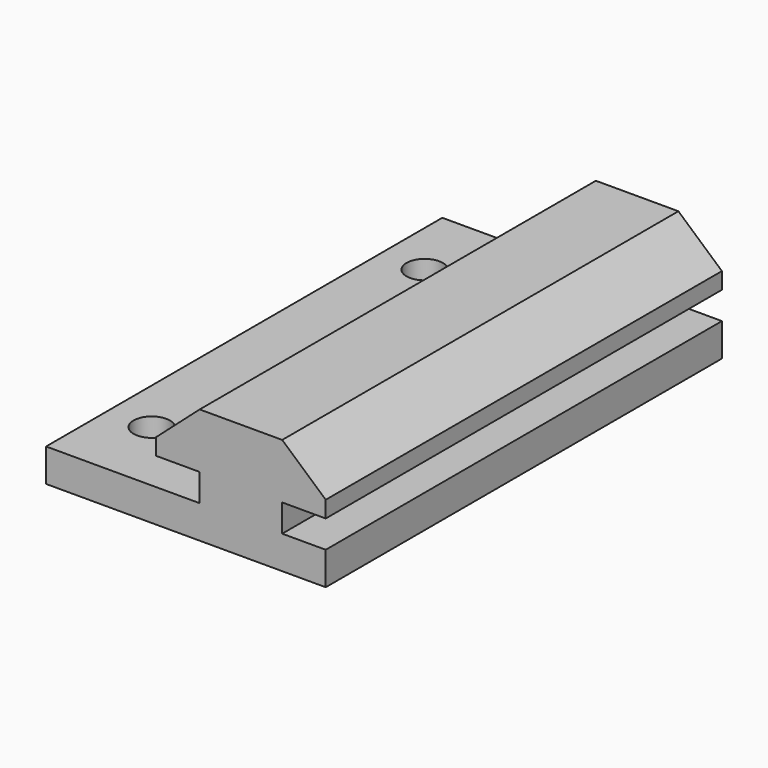
from build123d import *

# Parameters (mm, degrees)
F1_DEPTH = 45
F2_W     = 45
F2_H     = 3
F3_DEPTH = 10
F5_D     = 3.3


with BuildPart() as f1:
    # F0 (on Front) → F1 (new body)
    with BuildSketch(Plane.XZ):
        Polygon((-4.964183461, 2.5), (-4.964183461, 0), (2.535816539, 0), (2.535816539, 2.5), (6.4899705969, 2.5), (6.4899705969, 4), (2.535816539, 7.5), (-4.964183461, 7.5), (-8.9183375189, 4), (-8.9183375189, 2.5), align=None)
        Polygon((2.535816539, 0), (-4.964183461, 0), (-8.9183375189, 0), (-8.9183375189, -3), (6.4899705969, -3), (6.4899705969, 0), align=None)
    extrude(amount=F1_DEPTH)

    # F2 (on face) → F3 (join)
    with BuildSketch(Plane(origin=(-8.9183375189, 0, 0), x_dir=(0, -1, 0), z_dir=(-1, 0, 0))):
        with Locations((22.5, -1.5)):
            Rectangle(F2_W, F2_H)
    extrude(amount=F3_DEPTH)

    # F5 (through all)
    with Locations(Plane(origin=(0, 0, -3), x_dir=(1, 0, 0), z_dir=(0, 0, -1))):
        with Locations((-14.9183375189, 38), (-14.9183375189, 7)):
            Hole(F5_D / 2)


solid = f1.part
